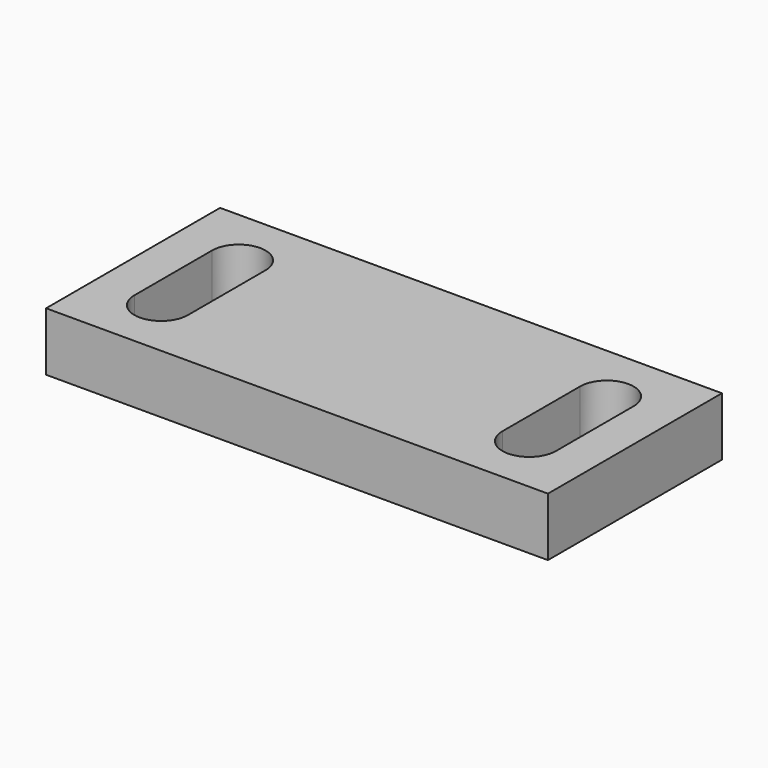
from build123d import *

# Parameters (mm, degrees)
SKETCH_W  = 30
SKETCH_H  = 26
PAD_DEPTH = 7


with BuildPart() as part:
    # Sketch → Pad (new body)
    with BuildSketch(Plane.XY):
        with Locations((15, 13)):
            Rectangle(SKETCH_W, SKETCH_H)
        with BuildLine():
            ThreePointArc((25.2, 18.8), (22, 22), (18.8, 18.8))
            Line((18.8, 18.8), (18.8, 7.2))
            ThreePointArc((18.8, 7.2), (22, 4), (25.2, 7.2))
            Line((25.2, 18.8), (25.2, 7.2))
        make_face(mode=Mode.SUBTRACT)
    pad = extrude(amount=PAD_DEPTH)

    # Mirrored: Pad across Sketch V_Axis
    add(pad.mirror(Plane(origin=(0, 0, 0), x_dir=(0, 0, 1), z_dir=(1, 0, 0))))


solid = part.part
